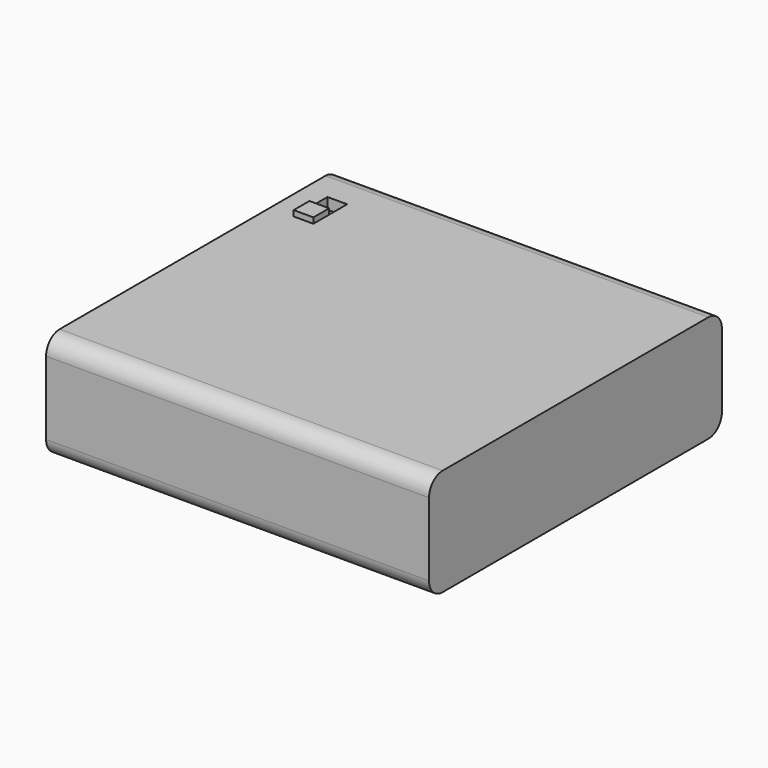
from build123d import *

# Parameters (mm, degrees)
F1_DEPTH = 68
F2_W     = 3.5
F2_H     = 7.5
F3_DEPTH = 2
F4_R     = 2
F5_DEPTH = 25
F6_W     = 3.5
F6_H     = 3.5
F7_DEPTH = 3


with BuildPart() as f1:
    # F0 (on Right) → F1 (new body)
    with BuildSketch(Plane.YZ):
        with BuildLine():
            Line((-29.5, -9.5), (29.5, -9.5))
            ThreePointArc((29.5, -9.5), (31.62132, -8.62132), (32.5, -6.5))
            Line((32.5, -6.5), (32.5, 6.5))
            ThreePointArc((32.5, 6.5), (31.62132, 8.62132), (29.5, 9.5))
            Line((29.5, 9.5), (-29.5, 9.5))
            ThreePointArc((-29.5, 9.5), (-31.62132, 8.62132), (-32.5, 6.5))
            Line((-32.5, 6.5), (-32.5, -6.5))
            ThreePointArc((-32.5, -6.5), (-31.62132, -8.62132), (-29.5, -9.5))
        make_face()
    extrude(amount=F1_DEPTH)

    # F2 (on face) → F3 (cut)
    with BuildSketch(Plane.XY.offset(9.5)):
        with Locations((5.95, 20.95)):
            Rectangle(F2_W, F2_H)
    extrude(amount=-F3_DEPTH, mode=Mode.SUBTRACT)

    # F4 (on face) → F5 (cut)
    with BuildSketch(Plane(origin=(0, 0, 0), x_dir=(0, -1, 0), z_dir=(-1, 0, 0))):
        with Locations((8.5, 4)):
            Circle(F4_R)
    extrude(amount=-F5_DEPTH, mode=Mode.SUBTRACT)

    # F6 (on face) → F7 (join)
    with BuildSketch(Plane.XY.offset(7.5)):
        with Locations((5.95, 18.95)):
            Rectangle(F6_W, F6_H)
    extrude(amount=F7_DEPTH)


solid = f1.part
